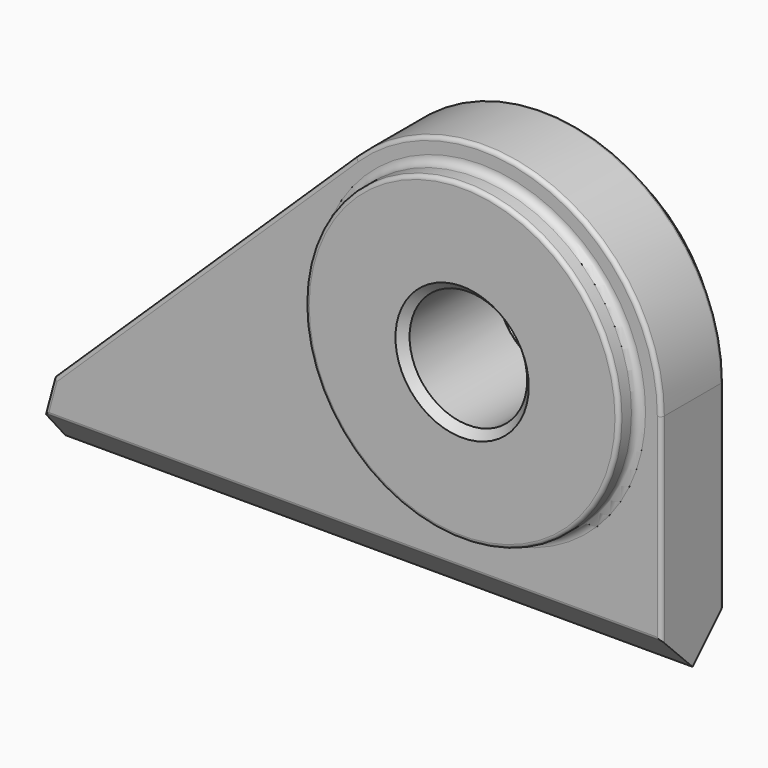
from build123d import *

# Parameters (mm, degrees)
F0_R     = 20
F1_DEPTH = 5
F0_R_2   = 7.5
F2_DEPTH = 8
F3_R     = 1
F4_SIZE  = 1
F6_DEPTH = 80.001
F7_R     = 0.5


with BuildPart() as f1:
    # F0 (on Front) → F1 (new body, symmetric)
    with BuildSketch(Plane.XZ):
        with BuildLine():
            Line((23, -30), (23, 0))
            ThreePointArc((23, 0), (8.9768012825, 21.175859811), (-15.9927859769, 16.5296943922))
            Line((-15.9927859769, 16.5296943922), (-54.5205736666, -20.7466549501))
            Line((-54.5205736666, -20.7466549501), (-57, -30))
            Line((-57, -30), (23, -30))
        make_face()
        Circle(F0_R, mode=Mode.SUBTRACT)
    extrude(amount=F1_DEPTH, both=True)

    # F0 (on Front) → F2 (join, symmetric)
    with BuildSketch(Plane.XZ):
        Circle(F0_R)
        Circle(F0_R_2, mode=Mode.SUBTRACT)
    extrude(amount=F2_DEPTH, both=True)

    # F3
    f3_edges = [f1.edges().sort_by_distance(p)[0] for p in [
        (-20, -5, 0),
        (-20, 5, 0),
    ]]
    fillet(f3_edges, radius=F3_R)

    # F4
    f4_edges = [f1.edges().sort_by_distance(p)[0] for p in [
        (-7.5, -8, 0),
        (7.5, 0, 0),
        (-7.5, 8, 0),
    ]]
    chamfer(f4_edges, length=F4_SIZE)

    # F5 (on face) → F6 (cut, through all)
    with BuildSketch(Plane.YZ.offset(23)):
        Polygon((5, -25), (0, -30), (-5, -25), (-8.4046628326, -25), (-8.4046628326, -34.2726558447), (0, -34.2726558447), (8.4046628326, -34.2726558447), (8.4046628326, -25), align=None)
    extrude(amount=-F6_DEPTH, mode=Mode.SUBTRACT)

    # F7
    f7_edges = [f1.edges().sort_by_distance(p)[0] for p in [
        (-20, -8, 0),
        (-20, 8, 0),
        (-16.330127, 5, -25),
        (-55.090414, 5, -22.873327),
        (-35.25668, 5, -2.10848),
        (-16.330127, -5, -25),
        (-55.090414, -5, -22.873327),
        (23, -5, -12.5),
        (-54.520574, 0, -20.746655),
    ]]
    fillet(f7_edges, radius=F7_R)


solid = f1.part
